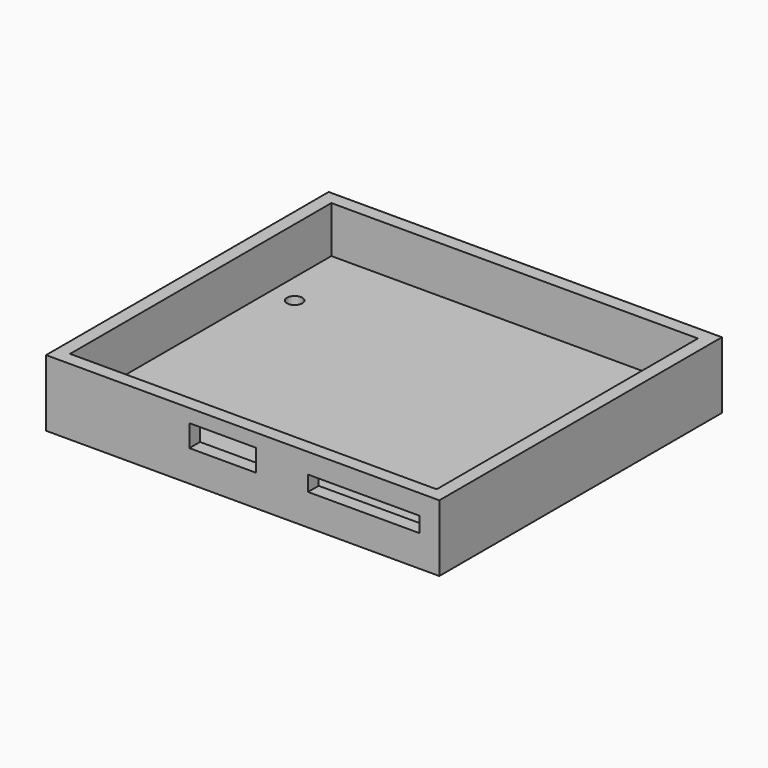
from build123d import *

# Parameters (mm, degrees)
SKETCH_W        = 59
SKETCH_H        = 53
PAD_DEPTH       = 10
SKETCH001_W     = 55
SKETCH001_H     = 49
POCKET_DEPTH    = 7
SKETCH002_R     = 1.15
HOLE_DEPTH      = 25
SKETCH003_W     = 10
SKETCH003_H     = 3.3
SKETCH003_W_2   = 16.7
SKETCH003_H_2   = 2.3
POCKET001_DEPTH = 5


with BuildPart() as part:
    # Sketch → Pad (new body)
    with BuildSketch(Plane.XY):
        with Locations((29.5, 26.5)):
            Rectangle(SKETCH_W, SKETCH_H)
    extrude(amount=PAD_DEPTH)

    # Sketch001 (on Face6 of Pad) → Pocket (cut)
    with BuildSketch(Plane.XY.offset(10)):
        with Locations((29.5, 26.5)):
            Rectangle(SKETCH001_W, SKETCH001_H)
    extrude(amount=-POCKET_DEPTH, mode=Mode.SUBTRACT)

    # Sketch002 (on Face11 of Pocket) → Hole (cut)
    with BuildSketch(Plane.XY.offset(3)):
        with Locations((5.69, 39.5)):
            Circle(SKETCH002_R)
        with Locations((34.5, 5.7)):
            Circle(SKETCH002_R)
        with Locations((5.69, 5.7)):
            Circle(SKETCH002_R)
        with Locations((51.5, 39.5)):
            Circle(SKETCH002_R)
    extrude(amount=-HOLE_DEPTH, mode=Mode.SUBTRACT)

    # Sketch003 (on Face1 of Hole) → Pocket001 (cut)
    with BuildSketch(Plane.XZ):
        with Locations((26.5, 6.35)):
            Rectangle(SKETCH003_W, SKETCH003_H)
        with Locations((47.65, 5.85)):
            Rectangle(SKETCH003_W_2, SKETCH003_H_2)
    extrude(amount=-POCKET001_DEPTH, mode=Mode.SUBTRACT)


solid = part.part
